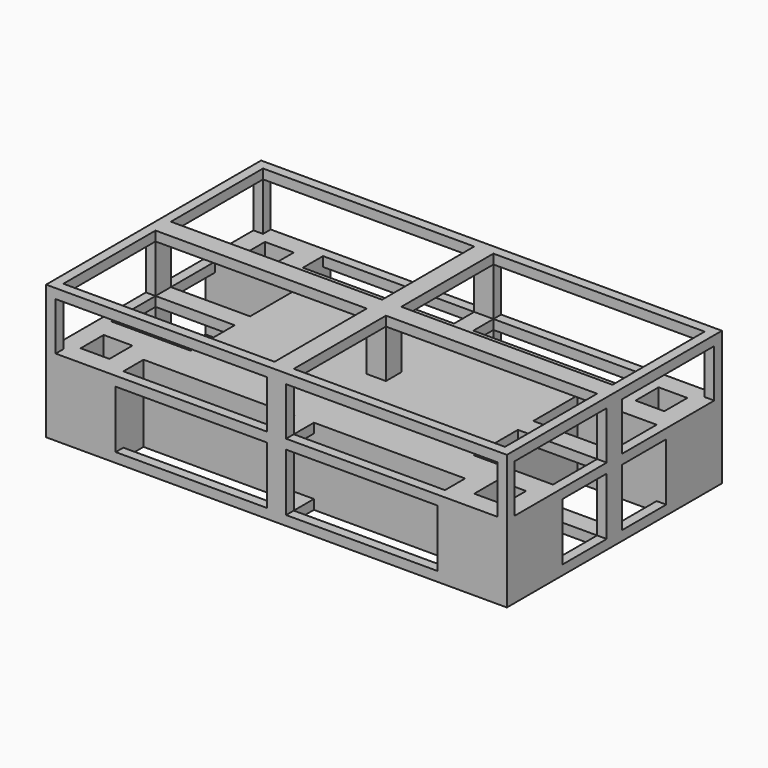
from build123d import *

# Parameters (mm, degrees)
F0_W      = 121.92
F0_H      = 71.12
F1_DEPTH  = 35.56
F2_W      = 3.81
F2_H      = 3.81
F3_DEPTH  = 12.7
F4_W      = 69.85
F4_H      = 47.625
F5_DEPTH  = 15.24
F6_W      = 27.94
F6_H      = 6.35
F7_DEPTH  = 71.12
F8_W      = 15.24
F8_H      = 6.35
F9_DEPTH  = 121.92
F10_W     = 27.94
F10_H     = 15.24
F11_DEPTH = 15.24
F12_DEPTH = 35.561
F13_W     = 40.005
F13_H     = 6.6675
F14_DEPTH = 35.561
F15_W     = 40.005
F15_H     = 15.24
F16_DEPTH = 4.2690588161
F17_W     = 40.005
F17_H     = 15.24
F18_DEPTH = 4.0254006162
F19_W     = 20.955
F19_H     = 14.605
F20_DEPTH = 25.4
F21_W     = 14.605
F21_H     = 15.24
F22_DEPTH = 17.6893454045
F23_W     = 14.605
F23_H     = 15.24
F24_DEPTH = 16.1260850728
F25_W     = 20.955
F25_H     = 15.24
F26_DEPTH = 12.7
F27_W     = 6.6675
F27_H     = 15.24
F28_DEPTH = 25.4
F29_W     = 6.6675
F29_H     = 15.24
F30_DEPTH = 25.4
F31_W     = 20.955
F31_H     = 15.24
F32_DEPTH = 12.7


with BuildPart() as f1:
    # F0 (on Top) → F1 (new body)
    with BuildSketch(Plane.XY):
        Rectangle(F0_W, F0_H)
    extrude(amount=F1_DEPTH)

    # F2 (on Top) → F3 (cut)
    with BuildSketch(Plane.XY):
        Polygon((59.055, -19.685), (52.07, -19.685), (52.07, -22.86), (55.88, -22.86), (55.88, -30.48), (48.26, -30.48), (48.26, -26.67), (45.085, -26.67), (45.085, -33.655), (59.055, -33.655), align=None)
        Polygon((52.07, -22.86), (52.07, -19.685), (45.085, -19.685), (45.085, -26.67), (48.26, -26.67), (48.26, -22.86), align=None)
        with Locations((50.165, -24.765)):
            Rectangle(F2_W, F2_H)
        Polygon((55.88, -22.86), (52.07, -22.86), (52.07, -26.67), (48.26, -26.67), (48.26, -30.48), (55.88, -30.48), align=None)
        Polygon((45.085, 33.655), (45.085, 26.67), (48.26, 26.67), (48.26, 30.48), (55.88, 30.48), (55.88, 22.86), (52.07, 22.86), (52.07, 19.685), (59.055, 19.685), (59.055, 33.655), align=None)
        Polygon((48.26, 26.67), (45.085, 26.67), (45.085, 19.685), (52.07, 19.685), (52.07, 22.86), (48.26, 22.86), align=None)
        Polygon((48.26, 30.48), (48.26, 26.67), (52.07, 26.67), (52.07, 22.86), (55.88, 22.86), (55.88, 30.48), align=None)
        with Locations((50.165, 24.765)):
            Rectangle(F2_W, F2_H)
        Polygon((-45.085, 26.67), (-48.26, 26.67), (-48.26, 22.86), (-52.07, 22.86), (-52.07, 19.685), (-45.085, 19.685), align=None)
        Polygon((-52.07, 22.86), (-52.07, 26.67), (-48.26, 26.67), (-48.26, 30.48), (-55.88, 30.48), (-55.88, 22.86), align=None)
        Polygon((-48.26, 30.48), (-48.26, 26.67), (-45.085, 26.67), (-45.085, 33.655), (-59.055, 33.655), (-59.055, 19.685), (-52.07, 19.685), (-52.07, 22.86), (-55.88, 22.86), (-55.88, 30.48), align=None)
        with Locations((-50.165, 24.765)):
            Rectangle(F2_W, F2_H)
        Polygon((-52.07, -22.86), (-52.07, -19.685), (-59.055, -19.685), (-59.055, -33.655), (-45.085, -33.655), (-45.085, -26.67), (-48.26, -26.67), (-48.26, -30.48), (-55.88, -30.48), (-55.88, -22.86), align=None)
        Polygon((-52.07, -26.67), (-52.07, -22.86), (-55.88, -22.86), (-55.88, -30.48), (-48.26, -30.48), (-48.26, -26.67), align=None)
        with Locations((-50.165, -24.765)):
            Rectangle(F2_W, F2_H)
        Polygon((-45.085, -19.685), (-52.07, -19.685), (-52.07, -22.86), (-48.26, -22.86), (-48.26, -26.67), (-45.085, -26.67), align=None)
    extrude(amount=F3_DEPTH, mode=Mode.SUBTRACT)

    # F4 (on face) → F5 (cut)
    with BuildSketch(Plane(origin=(0, 0, 0), x_dir=(1, 0, 0), z_dir=(0, 0, -1))):
        Rectangle(F4_W, F4_H)
    extrude(amount=-F5_DEPTH, mode=Mode.SUBTRACT)

    # F6 (on face) → F7 (cut, through all)
    with BuildSketch(Plane.XZ.offset(35.56)):
        with Locations((-44.45, 29.845)):
            Rectangle(F6_W, F6_H)
        with Locations((-16.51, 29.845)):
            Rectangle(F6_W, F6_H)
        with Locations((-16.51, 23.495)):
            Rectangle(F6_W, F6_H)
        with Locations((-44.45, 23.495)):
            Rectangle(F6_W, F6_H)
        with Locations((16.51, 29.845)):
            Rectangle(F6_W, F6_H)
        with Locations((16.51, 23.495)):
            Rectangle(F6_W, F6_H)
        with Locations((44.45, 29.845)):
            Rectangle(F6_W, F6_H)
        with Locations((44.45, 23.495)):
            Rectangle(F6_W, F6_H)
    extrude(amount=-F7_DEPTH, mode=Mode.SUBTRACT)

    # F8 (on face) → F9 (cut, through all)
    with BuildSketch(Plane(origin=(-60.96, 0, 0), x_dir=(0, -1, 0), z_dir=(-1, 0, 0))):
        with Locations((-25.4, 29.845)):
            Rectangle(F8_W, F8_H)
        with Locations((-10.16, 29.845)):
            Rectangle(F8_W, F8_H)
        with Locations((-10.16, 23.495)):
            Rectangle(F8_W, F8_H)
        with Locations((-25.4, 23.495)):
            Rectangle(F8_W, F8_H)
        with Locations((10.16, 23.495)):
            Rectangle(F8_W, F8_H)
        with Locations((10.16, 29.845)):
            Rectangle(F8_W, F8_H)
        with Locations((25.4, 29.845)):
            Rectangle(F8_W, F8_H)
        with Locations((25.4, 23.495)):
            Rectangle(F8_W, F8_H)
    extrude(amount=-F9_DEPTH, mode=Mode.SUBTRACT)

    # F10 (on face) → F11 (cut, through all)
    with BuildSketch(Plane.XY.offset(35.56)):
        with Locations((-44.45, 25.4)):
            Rectangle(F10_W, F10_H)
        with Locations((-16.51, 25.4)):
            Rectangle(F10_W, F10_H)
        with Locations((-16.51, 10.16)):
            Rectangle(F10_W, F10_H)
        with Locations((-44.45, 10.16)):
            Rectangle(F10_W, F10_H)
        with Locations((16.51, 25.4)):
            Rectangle(F10_W, F10_H)
        with Locations((16.51, 10.16)):
            Rectangle(F10_W, F10_H)
        with Locations((44.45, 25.4)):
            Rectangle(F10_W, F10_H)
        with Locations((44.45, 10.16)):
            Rectangle(F10_W, F10_H)
        with Locations((-44.45, -10.16)):
            Rectangle(F10_W, F10_H)
        with Locations((-16.51, -10.16)):
            Rectangle(F10_W, F10_H)
        with Locations((-16.51, -25.4)):
            Rectangle(F10_W, F10_H)
        with Locations((-44.45, -25.4)):
            Rectangle(F10_W, F10_H)
        with Locations((16.51, -25.4)):
            Rectangle(F10_W, F10_H)
        with Locations((16.51, -10.16)):
            Rectangle(F10_W, F10_H)
        with Locations((44.45, -25.4)):
            Rectangle(F10_W, F10_H)
        with Locations((44.45, -10.16)):
            Rectangle(F10_W, F10_H)
    extrude(amount=-F11_DEPTH, mode=Mode.SUBTRACT)

    # F2 (on Top) → F12 (cut, through all)
    with BuildSketch(Plane.XY):
        with Locations((50.165, -24.765)):
            Rectangle(F2_W, F2_H)
        Polygon((55.88, -22.86), (52.07, -22.86), (52.07, -26.67), (48.26, -26.67), (48.26, -30.48), (55.88, -30.48), align=None)
        with Locations((50.165, 24.765)):
            Rectangle(F2_W, F2_H)
        Polygon((48.26, 30.48), (48.26, 26.67), (52.07, 26.67), (52.07, 22.86), (55.88, 22.86), (55.88, 30.48), align=None)
        Polygon((-52.07, 22.86), (-52.07, 26.67), (-48.26, 26.67), (-48.26, 30.48), (-55.88, 30.48), (-55.88, 22.86), align=None)
        with Locations((-50.165, 24.765)):
            Rectangle(F2_W, F2_H)
        Polygon((-52.07, -26.67), (-52.07, -22.86), (-55.88, -22.86), (-55.88, -30.48), (-48.26, -30.48), (-48.26, -26.67), align=None)
        with Locations((-50.165, -24.765)):
            Rectangle(F2_W, F2_H)
    extrude(amount=F12_DEPTH, mode=Mode.SUBTRACT)

    # F13 (on face) → F14 (cut, through all)
    with BuildSketch(Plane(origin=(0, 0, 0), x_dir=(1, 0, 0), z_dir=(0, 0, -1))):
        with Locations((22.5425, 29.68625)):
            Rectangle(F13_W, F13_H)
        with Locations((-22.5425, 29.68625)):
            Rectangle(F13_W, F13_H)
        with Locations((22.5425, -29.68625)):
            Rectangle(F13_W, F13_H)
        with Locations((-22.5425, -29.68625)):
            Rectangle(F13_W, F13_H)
    extrude(amount=-F14_DEPTH, mode=Mode.SUBTRACT)

    # F15 (on face) → F16 (cut)
    with BuildSketch(Plane.XZ.offset(35.56)):
        with Locations((22.5425, 10.16)):
            Rectangle(F15_W, F15_H)
        with Locations((-22.5425, 10.16)):
            Rectangle(F15_W, F15_H)
    extrude(amount=-F16_DEPTH, mode=Mode.SUBTRACT)

    # F17 (on face) → F18 (cut)
    with BuildSketch(Plane(origin=(0, 35.56, 0), x_dir=(-1, 0, 0), z_dir=(0, 1, 0))):
        with Locations((22.5425, 10.16)):
            Rectangle(F17_W, F17_H)
        with Locations((-22.5425, 10.16)):
            Rectangle(F17_W, F17_H)
    extrude(amount=-F18_DEPTH, mode=Mode.SUBTRACT)

    # F19 (on face) → F20 (cut)
    with BuildSketch(Plane(origin=(0, 0, 0), x_dir=(1, 0, 0), z_dir=(0, 0, -1))):
        with Locations((47.9425, 9.8425)):
            Rectangle(F19_W, F19_H)
        with Locations((-47.9425, -9.8425)):
            Rectangle(F19_W, F19_H)
        with Locations((47.9425, -9.8425)):
            Rectangle(F19_W, F19_H)
        with Locations((-47.9425, 9.8425)):
            Rectangle(F19_W, F19_H)
    extrude(amount=-F20_DEPTH, mode=Mode.SUBTRACT)

    # F21 (on face) → F22 (cut)
    with BuildSketch(Plane.YZ.offset(60.96)):
        with Locations((9.8425, 10.16)):
            Rectangle(F21_W, F21_H)
        with Locations((-9.8425, 10.16)):
            Rectangle(F21_W, F21_H)
    extrude(amount=-F22_DEPTH, mode=Mode.SUBTRACT)

    # F23 (on face) → F24 (cut)
    with BuildSketch(Plane(origin=(-60.96, 0, 0), x_dir=(0, -1, 0), z_dir=(-1, 0, 0))):
        with Locations((-9.8425, 10.16)):
            Rectangle(F23_W, F23_H)
        with Locations((9.8425, 10.16)):
            Rectangle(F23_W, F23_H)
    extrude(amount=-F24_DEPTH, mode=Mode.SUBTRACT)

    # F25 (on face) → F26 (cut)
    with BuildSketch(Plane.XZ.offset(2.54)):
        with Locations((47.9425, 10.16)):
            Rectangle(F25_W, F25_H)
    extrude(amount=-F26_DEPTH, mode=Mode.SUBTRACT)

    # F27 (on face) → F28 (cut)
    with BuildSketch(Plane.YZ.offset(2.54)):
        with Locations((-29.68625, 10.16)):
            Rectangle(F27_W, F27_H)
    extrude(amount=-F28_DEPTH, mode=Mode.SUBTRACT)

    # F29 (on face) → F30 (cut)
    with BuildSketch(Plane.YZ.offset(2.54)):
        with Locations((29.68625, 10.16)):
            Rectangle(F29_W, F29_H)
    extrude(amount=-F30_DEPTH, mode=Mode.SUBTRACT)

    # F31 (on face) → F32 (cut)
    with BuildSketch(Plane(origin=(0, 2.54, 0), x_dir=(-1, 0, 0), z_dir=(0, 1, 0))):
        with Locations((47.9425, 10.16)):
            Rectangle(F31_W, F31_H)
    extrude(amount=-F32_DEPTH, mode=Mode.SUBTRACT)


solid = f1.part
